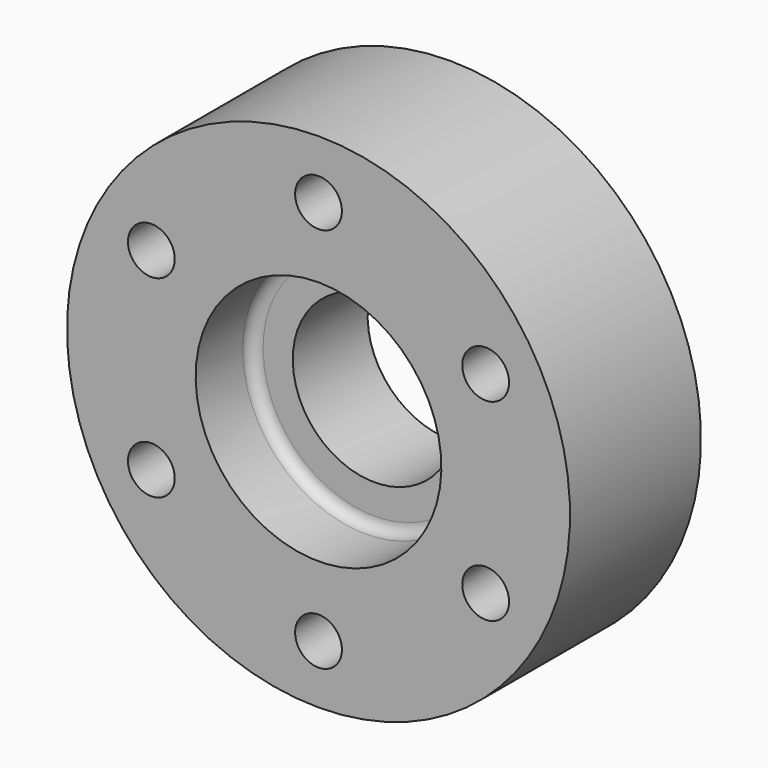
from build123d import *

# Parameters (mm, degrees)
F2_R     = 1.524
F3_R     = 3.175
F4_DEPTH = 22.226
F5_COUNT = 6


with BuildPart() as f1:
    # F0 (on Right) → F1 (revolve)
    with BuildSketch(Plane.YZ):
        Polygon((-12.7, 11.1125), (0, 11.1125), (0, 34.1376), (-22.225, 34.1376), (-22.225, 16.6751), (-12.7, 16.6751), align=None)
    revolve(axis=Axis((0, -9.273836258, 0), (0, -1, 0)))

    # F2
    f2_edges = [f1.edges().sort_by_distance(p)[0] for p in [
        (0, -12.7, -16.6751),
    ]]
    fillet(f2_edges, radius=F2_R)

    # F3 (on face) → F4 (cut, through all)
    with BuildSketch(Plane.XZ.offset(22.225)):
        with Locations((0, -26.2001)):
            Circle(F3_R)
    f4 = extrude(amount=-F4_DEPTH, mode=Mode.SUBTRACT)

    # F5: F4 ×6 about axis
    f5_axis = Axis((0, -22.225, 0), (0, -1, 0))
    for i in range(1, F5_COUNT):
        add(f4.rotate(f5_axis, i * 360 / F5_COUNT), mode=Mode.SUBTRACT)


solid = f1.part
